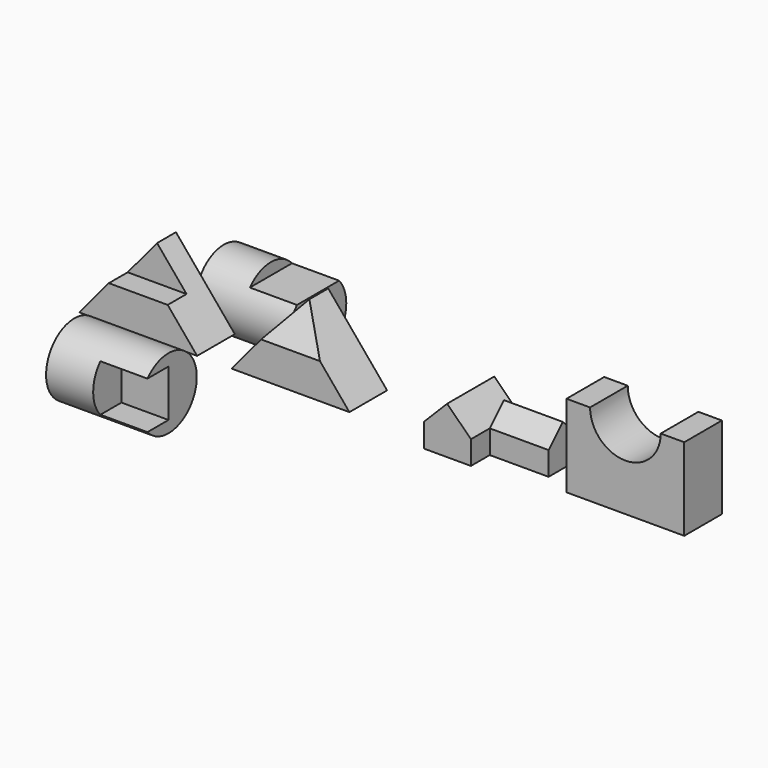
from build123d import *

# Parameters (mm, degrees)
F1_DEPTH  = 101.6
F2_DEPTH  = 50.8
F3_W      = 254
F3_H      = 152.4
F4_DEPTH  = 101.6
F7_DEPTH  = 254
F8_DEPTH  = 101.6
F9_DEPTH  = 101.6
F11_DEPTH = 127
F14_DEPTH = 127
F16_DEPTH = 203.2
F17_DEPTH = 101.6
F19_DEPTH = 203.2
F20_DEPTH = 101.6
F21_W     = 254
F21_H     = 88.9
F22_DEPTH = 101.6
F24_DEPTH = 101.6


with BuildPart() as f1:
    # F0 (on Front) → F1 (new body)
    with BuildSketch(Plane.XZ):
        Polygon((-127, 0), (0, 0), (0, 76.2), (-63.5, 76.2), align=None)
        Polygon((0, 76.2), (0, 0), (127, 0), (63.5, 76.2), align=None)
    extrude(amount=F1_DEPTH)

    # F0 (on Front) → F2 (join)
    with BuildSketch(Plane.XZ):
        Polygon((0, 76.2), (0, 0), (127, 0), (63.5, 76.2), align=None)
        Polygon((-127, 0), (0, 0), (0, 76.2), (-63.5, 76.2), align=None)
        Polygon((-63.5, 76.2), (0, 76.2), (0, 152.4), align=None)
        Polygon((0, 152.4), (0, 76.2), (63.5, 76.2), align=None)
    extrude(amount=F2_DEPTH)


with BuildPart() as f4:
    # F3 (on Front) → F4 (new body)
    with BuildSketch(Plane.XZ):
        with Locations((328.5537848152, 76.2)):
            Rectangle(F3_W, F3_H)
    extrude(amount=F4_DEPTH)

    # F5 (on face) → F7 (cut)
    with BuildSketch(Plane.YZ.offset(455.5537848152)):
        Polygon((-101.6, 76.2), (-50.8, 152.4), (-101.6, 152.4), align=None)
    extrude(amount=-F7_DEPTH, mode=Mode.SUBTRACT)

    # F6 (on face) → F8 (cut)
    with BuildSketch(Plane.XZ.offset(101.6)):
        Polygon((201.5537848152, 0), (328.5537848152, 152.4), (201.5537848152, 152.4), align=None)
    extrude(amount=-F8_DEPTH, mode=Mode.SUBTRACT)

    # F6 (on face) → F9 (cut)
    with BuildSketch(Plane.XZ.offset(101.6)):
        Polygon((455.5537848152, 152.4), (328.5537848152, 152.4), (455.5537848152, 0), align=None)
    extrude(amount=-F9_DEPTH, mode=Mode.SUBTRACT)


with BuildPart() as f11:
    # F10 (on Front) → F11 (new body)
    with BuildSketch(Plane.XZ):
        Polygon((636.3934290931, 50.8), (636.3934290931, 0), (737.9934290931, 0), (737.9934290931, 50.8), (686.7509557304, 101.6), align=None)
    extrude(amount=F11_DEPTH)

    # F13 (on offset) → F14 (join)
    with BuildSketch(Plane.YZ.offset(864.9934290931)):
        Polygon((-76.2, 0), (0, 0), (0, 50.8), (-38.1, 88.9), (-76.2, 50.8), align=None)
    extrude(amount=-F14_DEPTH)


with BuildPart() as f16:
    # F15 (on Right) → F16 (new body)
    with BuildSketch(Plane.YZ):
        with BuildLine():
            ThreePointArc((72.3616482845, 50.8), (101.9679316723, -71.183933753), (205.357774913, 0))
            ThreePointArc((205.357774913, 0), (200.3417086659, 27.1898432407), (185.9539015415, 50.8))
            Line((185.9539015415, 50.8), (129.157774913, 50.8))
            Line((129.157774913, 50.8), (72.3616482845, 50.8))
        make_face()
    extrude(amount=F16_DEPTH)

    # F15 (on Right) → F17 (join)
    with BuildSketch(Plane.YZ):
        with BuildLine():
            ThreePointArc((72.3616482845, 50.8), (101.9679316723, -71.183933753), (205.357774913, 0))
            ThreePointArc((205.357774913, 0), (200.3417086659, 27.1898432407), (185.9539015415, 50.8))
            Line((185.9539015415, 50.8), (129.157774913, 50.8))
            Line((129.157774913, 50.8), (72.3616482845, 50.8))
        make_face()
        with BuildLine():
            Line((129.157774913, 50.8), (185.9539015415, 50.8))
            ThreePointArc((185.9539015415, 50.8), (129.157774913, 76.2), (72.3616482845, 50.8))
            Line((72.3616482845, 50.8), (129.157774913, 50.8))
        make_face()
    extrude(amount=F17_DEPTH)


with BuildPart() as f19:
    # F18 (on Right) → F19 (new body)
    with BuildSketch(Plane.YZ):
        with BuildLine():
            ThreePointArc((-330.7911684757, -26.8279835582), (-246.8051986065, -47.2119173111), (-197.7950418472, 23.9720164418))
            ThreePointArc((-197.7950418472, 23.9720164418), (-246.8051986065, 95.1559501948), (-330.7911684757, 74.7720164418))
            Line((-330.7911684757, 74.7720164418), (-273.9950418472, 74.7720164418))
            Line((-273.9950418472, 74.7720164418), (-273.9950418472, 23.9720164418))
            Line((-273.9950418472, 23.9720164418), (-273.9950418472, -26.8279835582))
            Line((-273.9950418472, -26.8279835582), (-330.7911684757, -26.8279835582))
        make_face()
    extrude(amount=F19_DEPTH)

    # F18 (on Right) → F20 (join)
    with BuildSketch(Plane.YZ):
        with BuildLine():
            ThreePointArc((-330.7911684757, -26.8279835582), (-246.8051986065, -47.2119173111), (-197.7950418472, 23.9720164418))
            ThreePointArc((-197.7950418472, 23.9720164418), (-246.8051986065, 95.1559501948), (-330.7911684757, 74.7720164418))
            Line((-330.7911684757, 74.7720164418), (-273.9950418472, 74.7720164418))
            Line((-273.9950418472, 74.7720164418), (-273.9950418472, 23.9720164418))
            Line((-273.9950418472, 23.9720164418), (-273.9950418472, -26.8279835582))
            Line((-273.9950418472, -26.8279835582), (-330.7911684757, -26.8279835582))
        make_face()
        with BuildLine():
            Line((-273.9950418472, 74.7720164418), (-330.7911684757, 74.7720164418))
            ThreePointArc((-330.7911684757, 74.7720164418), (-350.1950418472, 23.9720164418), (-330.7911684757, -26.8279835582))
            Line((-330.7911684757, -26.8279835582), (-273.9950418472, -26.8279835582))
            Line((-273.9950418472, -26.8279835582), (-273.9950418472, 23.9720164418))
            Line((-273.9950418472, 23.9720164418), (-273.9950418472, 74.7720164418))
        make_face()
    extrude(amount=F20_DEPTH)


with BuildPart() as f22:
    # F21 (on Front) → F22 (new body)
    with BuildSketch(Plane.XZ):
        with Locations((1050.9006237632, 44.45)):
            Rectangle(F21_W, F21_H)
        with Locations((1050.9006237632, 133.35)):
            Rectangle(F21_W, F21_H)
    extrude(amount=F22_DEPTH)

    # F23 (on face) → F24 (cut)
    with BuildSketch(Plane.XZ.offset(101.6)):
        with BuildLine():
            ThreePointArc((974.7006237632, 177.8), (1050.9006237632, 101.6), (1127.1006237632, 177.8))
            Line((1127.1006237632, 177.8), (974.7006237632, 177.8))
        make_face()
    extrude(amount=-F24_DEPTH, mode=Mode.SUBTRACT)


solid = Compound([f1.part, f4.part, f11.part, f16.part, f19.part, f22.part])
